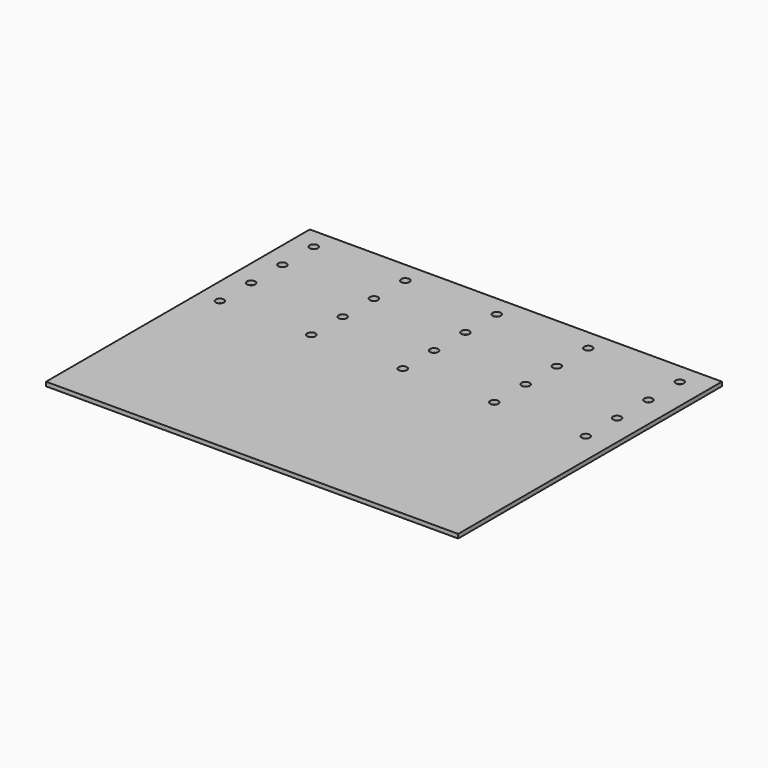
from build123d import *

# Parameters (mm, degrees)
F0_W     = 2540
F0_H     = 2032
F0_R     = 25.4
F1_DEPTH = 25.4


with BuildPart() as f1:
    # F0 (on Top) → F1 (new body)
    with BuildSketch(Plane.XY):
        with Locations((1270, 1016)):
            Rectangle(F0_W, F0_H)
        with Locations((127.525906, 1179.177538)):
            Circle(F0_R, mode=Mode.SUBTRACT)
        with Locations((127.525906, 1420.477538)):
            Circle(F0_R, mode=Mode.SUBTRACT)
        with Locations((691.405906, 1179.177538)):
            Circle(F0_R, mode=Mode.SUBTRACT)
        with Locations((1255.285906, 1179.177538)):
            Circle(F0_R, mode=Mode.SUBTRACT)
        with Locations((691.405906, 1420.477538)):
            Circle(F0_R, mode=Mode.SUBTRACT)
        with Locations((1255.285906, 1420.477538)):
            Circle(F0_R, mode=Mode.SUBTRACT)
        with Locations((127.525906, 1661.777538)):
            Circle(F0_R, mode=Mode.SUBTRACT)
        with Locations((127.525906, 1903.077538)):
            Circle(F0_R, mode=Mode.SUBTRACT)
        with Locations((691.405906, 1661.777538)):
            Circle(F0_R, mode=Mode.SUBTRACT)
        with Locations((1255.285906, 1661.777538)):
            Circle(F0_R, mode=Mode.SUBTRACT)
        with Locations((691.405906, 1903.077538)):
            Circle(F0_R, mode=Mode.SUBTRACT)
        with Locations((1255.285906, 1903.077538)):
            Circle(F0_R, mode=Mode.SUBTRACT)
        with Locations((1819.165906, 1179.177538)):
            Circle(F0_R, mode=Mode.SUBTRACT)
        with Locations((1819.165906, 1420.477538)):
            Circle(F0_R, mode=Mode.SUBTRACT)
        with Locations((2383.045906, 1179.177538)):
            Circle(F0_R, mode=Mode.SUBTRACT)
        with Locations((2383.045906, 1420.477538)):
            Circle(F0_R, mode=Mode.SUBTRACT)
        with Locations((1819.165906, 1661.777538)):
            Circle(F0_R, mode=Mode.SUBTRACT)
        with Locations((1819.165906, 1903.077538)):
            Circle(F0_R, mode=Mode.SUBTRACT)
        with Locations((2383.045906, 1661.777538)):
            Circle(F0_R, mode=Mode.SUBTRACT)
        with Locations((2383.045906, 1903.077538)):
            Circle(F0_R, mode=Mode.SUBTRACT)
    extrude(amount=F1_DEPTH)


solid = f1.part
